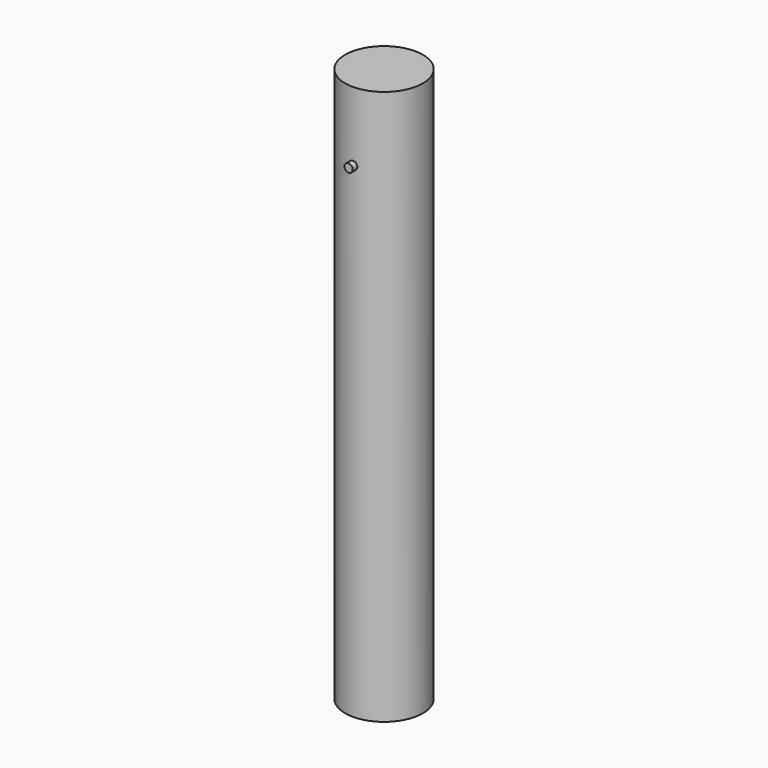
from build123d import *

# Parameters (mm, degrees)
F0_R     = 7
F1_DEPTH = 100
F2_R     = 0.75
F3_DEPTH = 8


with BuildPart() as f1:
    # F0 (on Top) → F1 (new body)
    with BuildSketch(Plane.XY):
        Circle(F0_R)
    extrude(amount=F1_DEPTH)

    # F2 (on Front) → F3 (join)
    with BuildSketch(Plane.XZ):
        with Locations((0, 87.539658)):
            Circle(F2_R)
    extrude(amount=F3_DEPTH)


solid = f1.part
